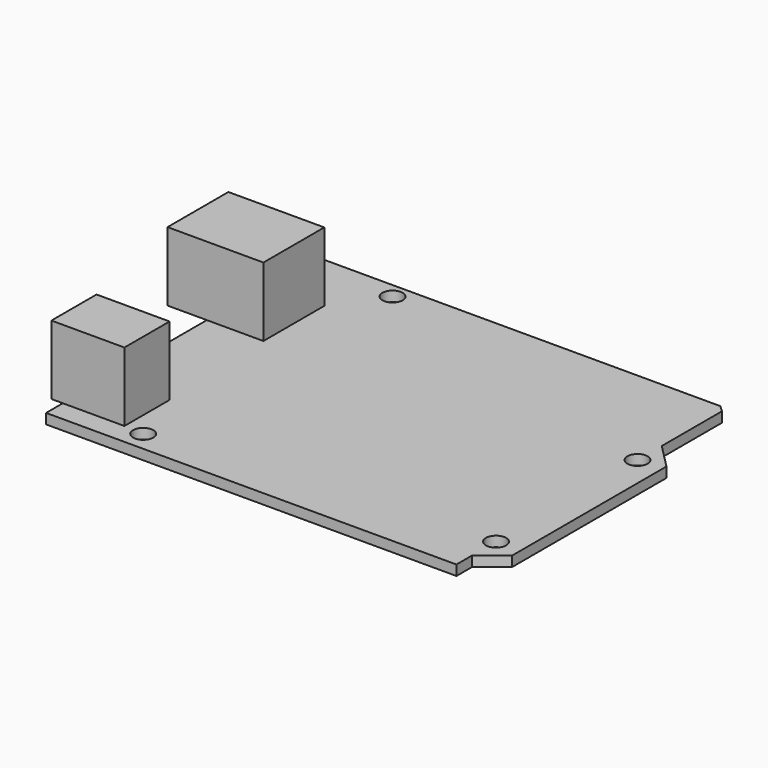
from build123d import *

# Parameters (mm, degrees)
F0_R     = 1.6
F1_DEPTH = 1.6
F2_W     = 6.2
F2_H     = 12
F2_W_2   = 8.9264095291
F2_W_3   = 1.8
F2_H_2   = 8.9
F2_W_4   = 9.7178567663
F3_DEPTH = 10.9


with BuildPart() as f1:
    # F0 (on Top) → F1 (new body)
    with BuildSketch(Plane.XY):
        Polygon((29.1568834364, 26.8385808785), (-34.552180326, 26.8385808785), (-34.552180326, -26.4614191215), (30.1843619615, -26.4614191215), (30.1843619615, -23.3565997332), (34.047819674, -20.3693939492), (34.047819674, 10.1245269179), (30.1843619615, 14.0201912264), (30.1843619615, 25.8855155986), align=None)
        with Locations((-21.7156380385, -23.3565997332)):
            Circle(F0_R, mode=Mode.SUBTRACT)
        with Locations((30.1843619615, -18.6565997332)):
            Circle(F0_R, mode=Mode.SUBTRACT)
        with Locations((-20.6156380385, 24.4434002668)):
            Circle(F0_R, mode=Mode.SUBTRACT)
        with Locations((30.1843619615, 9.2434002668)):
            Circle(F0_R, mode=Mode.SUBTRACT)
    extrude(amount=F1_DEPTH)

    # F2 (on face) → F3 (join)
    with BuildSketch(Plane.XY.offset(1.6)):
        with Locations((-37.652180326, 11.2385808785)):
            Rectangle(F2_W, F2_H)
        with Locations((-30.0889755614, 11.2385808785)):
            Rectangle(F2_W_2, F2_H)
        with Locations((-35.452180326, -18.7114191215)):
            Rectangle(F2_W_3, F2_H_2)
        with Locations((-29.6932519429, -18.7114191215)):
            Rectangle(F2_W_4, F2_H_2)
    extrude(amount=F3_DEPTH)


solid = f1.part
